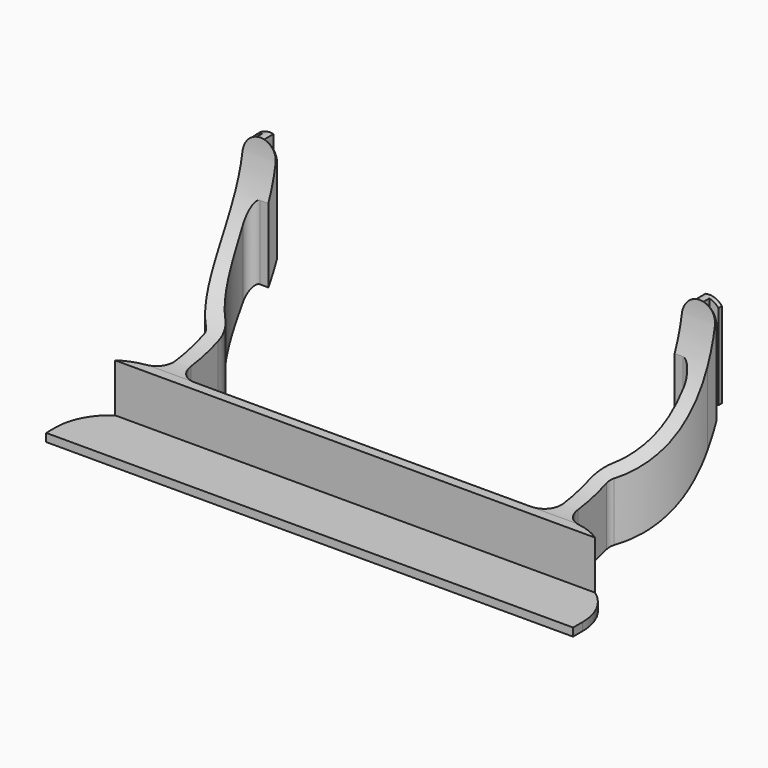
from build123d import *

# Parameters (mm, degrees)
F1_DEPTH = 71.12
F3_DEPTH = 101.6
F5_DEPTH = 78.614


with BuildPart() as f1:
    # F0 (on Top) → F1 (new body)
    with BuildSketch(Plane.XY):
        with BuildLine():
            Line((-92.075, 0), (0, 0))
            Line((0, 0), (92.075, 0))
            Line((92.075, 0), (92.075, 4.191))
            ThreePointArc((92.075, 4.191), (87.438941, 16.646554), (75.78725, 23.039673))
            ThreePointArc((75.78725, 23.039673), (71.903353, 25.170713), (70.358, 29.322564))
            Line((70.358, 29.322564), (70.358, 41.662933))
            ThreePointArc((70.358, 41.662933), (70.60499, 42.890688), (71.307533, 43.927424))
            ThreePointArc((71.307533, 43.927424), (79.625637, 56.202377), (82.55, 70.739))
            Line((82.55, 70.739), (82.55, 74.549))
            Line((82.55, 74.549), (78.0415, 74.549))
            Line((78.0415, 74.549), (78.0415, 77.089))
            Line((78.0415, 77.089), (81.2165, 77.089))
            Line((81.2165, 77.089), (81.2165, 78.613))
            Line((81.2165, 78.613), (78.0415, 78.613))
            Line((78.0415, 78.613), (75.5015, 78.613))
            Line((75.5015, 78.613), (75.5015, 74.549))
            Line((75.5015, 74.549), (70.993, 74.549))
            Line((70.993, 74.549), (70.993, 70.739))
            Line((70.993, 70.739), (73.867173, 70.739))
            ThreePointArc((73.867173, 70.739), (76.23161, 69.682976), (77.023196, 67.217384))
            ThreePointArc((77.023196, 67.217384), (74.034342, 56.769573), (67.745761, 47.907082))
            ThreePointArc((67.745761, 47.907082), (65.731431, 44.897155), (65.024, 41.345152))
            Line((65.024, 41.345152), (65.024, 29.591))
            ThreePointArc((65.024, 29.591), (63.164128, 25.100872), (58.674, 23.241))
            Line((58.674, 23.241), (0, 23.241))
            Line((0, 23.241), (-58.674, 23.241))
            ThreePointArc((-58.674, 23.241), (-63.164128, 25.100872), (-65.024, 29.591))
            Line((-65.024, 29.591), (-65.024, 41.345152))
            ThreePointArc((-65.024, 41.345152), (-65.731431, 44.897155), (-67.745761, 47.907082))
            ThreePointArc((-67.745761, 47.907082), (-74.034342, 56.769573), (-77.023196, 67.217384))
            ThreePointArc((-77.023196, 67.217384), (-76.23161, 69.682976), (-73.867173, 70.739))
            Line((-73.867173, 70.739), (-70.993, 70.739))
            Line((-70.993, 70.739), (-70.993, 74.549))
            Line((-70.993, 74.549), (-75.5015, 74.549))
            Line((-75.5015, 74.549), (-75.5015, 78.613))
            Line((-75.5015, 78.613), (-81.2165, 78.613))
            Line((-81.2165, 78.613), (-81.2165, 77.089))
            Line((-81.2165, 77.089), (-78.0415, 77.089))
            Line((-78.0415, 77.089), (-78.0415, 74.549))
            Line((-78.0415, 74.549), (-82.55, 74.549))
            Line((-82.55, 74.549), (-82.55, 70.739))
            ThreePointArc((-82.55, 70.739), (-79.625637, 56.202377), (-71.307533, 43.927424))
            ThreePointArc((-71.307533, 43.927424), (-70.60499, 42.890688), (-70.358, 41.662933))
            Line((-70.358, 41.662933), (-70.358, 29.322564))
            ThreePointArc((-70.358, 29.322564), (-71.903353, 25.170713), (-75.78725, 23.039673))
            ThreePointArc((-75.78725, 23.039673), (-87.438941, 16.646554), (-92.075, 4.191))
            Line((-92.075, 4.191), (-92.075, 0))
        make_face()
    extrude(amount=F1_DEPTH)

    # F2 (on Right) → F3 (intersect, symmetric)
    with BuildSketch(Plane.YZ):
        with BuildLine():
            Line((0.047138, 2.79405), (0, 0))
            Line((0, 0), (23.240988, 0.02372))
            ThreePointArc((23.240988, 0.02372), (55.450197, 9.625805), (75.869463, 36.322))
            Line((75.869463, 36.322), (78.613, 36.322))
            Line((78.613, 36.322), (78.613, 71.12407))
            Line((78.613, 71.12407), (74.6252, 71.12))
            ThreePointArc((74.6252, 71.12), (59.575116, 34.785884), (23.241, 19.7358))
            Line((23.241, 19.7358), (19.859128, 19.7358))
            Line((19.859128, 19.7358), (19.859128, 2.81427))
            Line((19.859128, 2.81427), (0.047138, 2.79405))
        make_face()
    extrude(amount=F3_DEPTH, both=True, mode=Mode.INTERSECT)

    # F4 (on Front) → F5 (cut, through all)
    with BuildSketch(Plane.XZ):
        with BuildLine():
            Line((-85.773818, 62.544154), (-82.55, 62.544154))
            ThreePointArc((-82.55, 62.544154), (-76.7715, 68.322654), (-70.993, 62.544154))
            Line((-70.993, 62.544154), (-67.021526, 62.544154))
            Line((-67.021526, 62.544154), (-67.021526, 73.423296))
            Line((-67.021526, 73.423296), (-85.773818, 73.423296))
            Line((-85.773818, 73.423296), (-85.773818, 62.544154))
        make_face()
        with BuildLine():
            ThreePointArc((70.993, 62.544154), (76.7715, 68.322654), (82.55, 62.544154))
            Line((82.55, 62.544154), (85.773818, 62.544154))
            Line((85.773818, 62.544154), (85.773818, 73.423296))
            Line((85.773818, 73.423296), (67.021526, 73.423296))
            Line((67.021526, 73.423296), (67.021526, 62.544154))
            Line((67.021526, 62.544154), (70.993, 62.544154))
        make_face()
    extrude(amount=-F5_DEPTH, mode=Mode.SUBTRACT)


solid = f1.part
